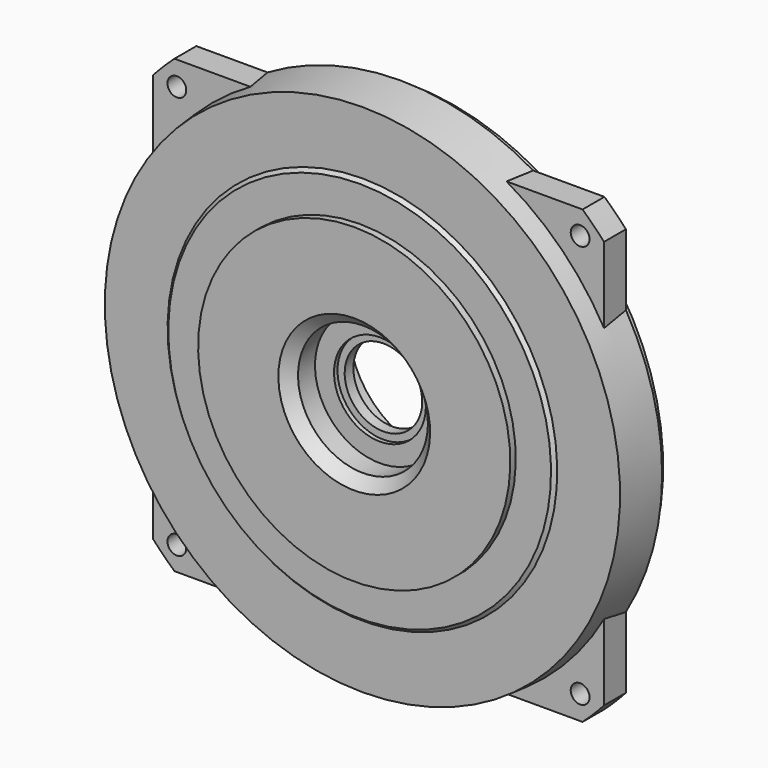
from build123d import *

# Parameters (mm, degrees)
F2_R     = 12.7
F3_R     = 5.08
F4_R     = 4.3688
F5_DEPTH = 12.7
F6_COUNT = 4


with BuildPart() as f1:
    # F0 (on Right) → F1 (revolve)
    with BuildSketch(Plane.YZ):
        Polygon((0, 72.5043), (0, 35.2425), (5.08, 30.1625), (14.9352, 30.1625), (14.9352, 21.336), (16.9672, 21.336), (16.9672, 18.0086), (22.0218, 18.0086), (22.0218, 35.4337260178), (22.7838, 36.1957260178), (22.7838, 40.005), (46.9646, 40.005), (46.9646, 50.8), (11.557, 57.0433152021), (11.557, 114.4524), (23.4784016177, 114.4524), (31.5722, 114.4524), (31.5722, 118.2624), (26.797, 118.2624), (26.797, 121.5898), (4.7625, 119.6620310435), (4.7625, 90.4875), (3.175, 88.9), (3.175, 72.5043), align=None)
    revolve(axis=Axis((0, 65.5152718432, 0), (0, 1, 0)))

    # F2
    f2_edges = [f1.edges().sort_by_distance(p)[0] for p in [
        (0, 11.557, -114.4524),
    ]]
    fillet(f2_edges, radius=F2_R)

    # F3
    f3_edges = [f1.edges().sort_by_distance(p)[0] for p in [
        (0, 11.557, -57.043315),
    ]]
    fillet(f3_edges, radius=F3_R)

    # F4 (on face) → F5 (join)
    with BuildSketch(Plane(origin=(0, 26.797, 0), x_dir=(-1, 0, 0), z_dir=(0, 1, 0))):
        with BuildLine():
            Line((104.775, 61.6950471192), (104.775, 94.7858482647))
            ThreePointArc((104.775, 94.7858482647), (99.9053493469, 99.9053493469), (94.7858482647, 104.775))
            Line((94.7858482647, 104.775), (61.6950471192, 104.775))
            ThreePointArc((61.6950471192, 104.775), (85.9769721031, 85.9769721031), (104.775, 61.6950471192))
        make_face()
        with Locations((93.6625, 93.6625)):
            Circle(F4_R, mode=Mode.SUBTRACT)
        with BuildLine():
            Line((104.775, 54.8470111197), (104.775, 61.6950471192))
            ThreePointArc((104.775, 61.6950471192), (85.9769721031, 85.9769721031), (61.6950471192, 104.775))
            Line((61.6950471192, 104.775), (54.8470111197, 104.775))
            ThreePointArc((54.8470111197, 104.775), (83.6241449994, 83.6241449994), (104.775, 54.8470111197))
        make_face()
    extrude(amount=-F5_DEPTH)

    # F6: F1 ×4 about axis
    f6_axis = Axis((0, 16.9672, 0), (0, 1, 0))


with BuildPart() as f1_1:
    add(f1.part)
    for i in range(1, F6_COUNT):
        add(f1.part.rotate(f6_axis, i * 360 / F6_COUNT))


solid = f1_1.part
